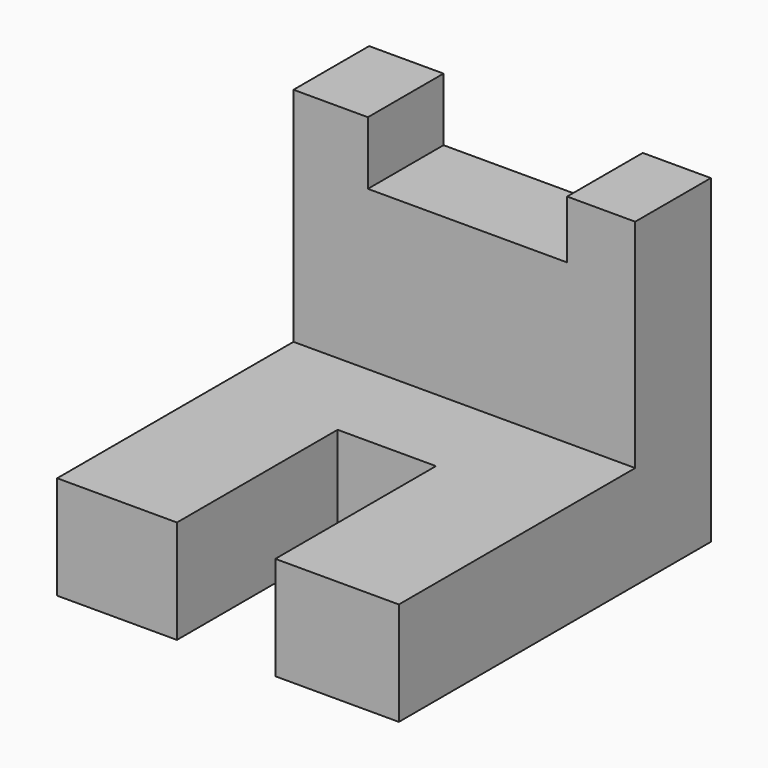
from build123d import *

# Parameters (mm, degrees)
F1_DEPTH = 8.128
F2_W     = 29.380368
F2_H     = 8.890002
F3_DEPTH = 25.4
F4_W     = 6.938537
F4_H     = 17.482635
F5_DEPTH = 8.382
F6_W     = 8.456341
F6_H     = 17.265804
F7_DEPTH = 9.906


with BuildPart() as f1:
    # F0 (on Front) → F1 (new body)
    with BuildSketch(Plane.XZ):
        Polygon((0, 5.420732), (0, 0), (0, -22.550246), (29.380368, -22.550246), (29.380368, 4.987073), (23.525976, 4.987073), (23.525976, 0), (6.396465, 0), (6.396465, 5.420732), align=None)
    extrude(amount=F1_DEPTH)

    # F2 (on face) → F3 (join)
    with BuildSketch(Plane.XZ.offset(8.128)):
        with Locations((14.690184, -18.105245)):
            Rectangle(F2_W, F2_H)
    extrude(amount=F3_DEPTH)

    # F4 (on face) → F5 (join)
    with BuildSketch(Plane.XY.offset(-13.660244)):
        with Locations((15.286463, -24.786682)):
            Rectangle(F4_W, F4_H)
    extrude(amount=-F5_DEPTH)

    # F6 (on face) → F7 (cut)
    with BuildSketch(Plane.XY.offset(-13.660244)):
        with Locations((14.527561, -24.895098)):
            Rectangle(F6_W, F6_H)
    extrude(amount=-F7_DEPTH, mode=Mode.SUBTRACT)


solid = f1.part
